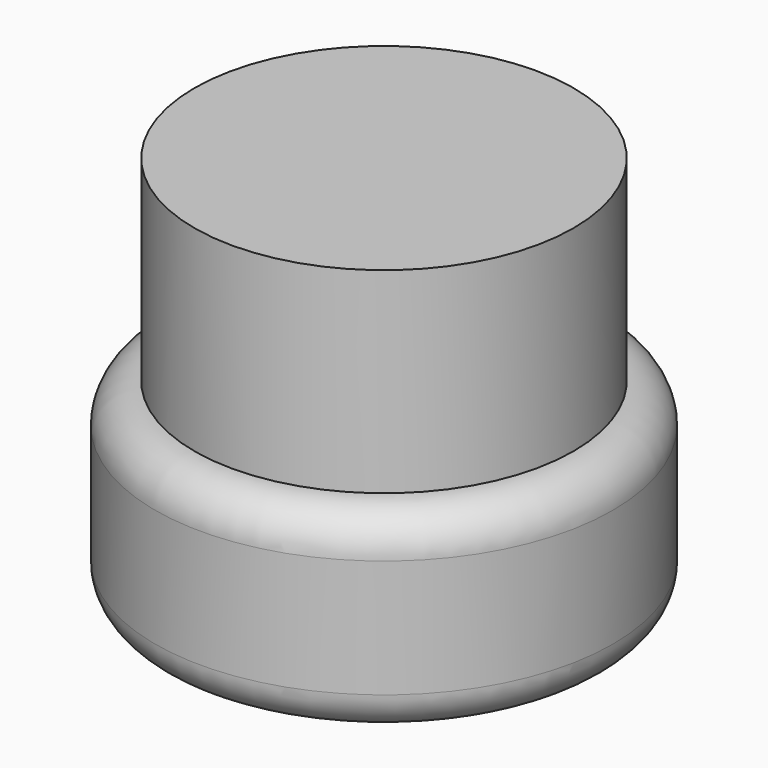
from build123d import *

# Parameters (mm, degrees)
F0_R     = 29.6029222689
F1_DEPTH = 12.7
F2_R     = 5.08
F3_DEPTH = 25.4


with BuildPart() as f1:
    # F0 (on Top) → F1 (new body, symmetric)
    with BuildSketch(Plane.XY):
        Circle(F0_R)
    extrude(amount=F1_DEPTH, both=True)

    # F2
    f2_edges = [f1.edges().sort_by_distance(p)[0] for p in [
        (-29.602922, 0, 12.7),
        (-29.602922, 0, -12.7),
    ]]
    fillet(f2_edges, radius=F2_R)

    # F3 (add): a face of the model
    f3_faces = [f1.faces().sort_by_distance(p)[0] for p in [
        (0, 0, 12.7),
    ]]
    extrude(f3_faces, amount=F3_DEPTH)


solid = f1.part
